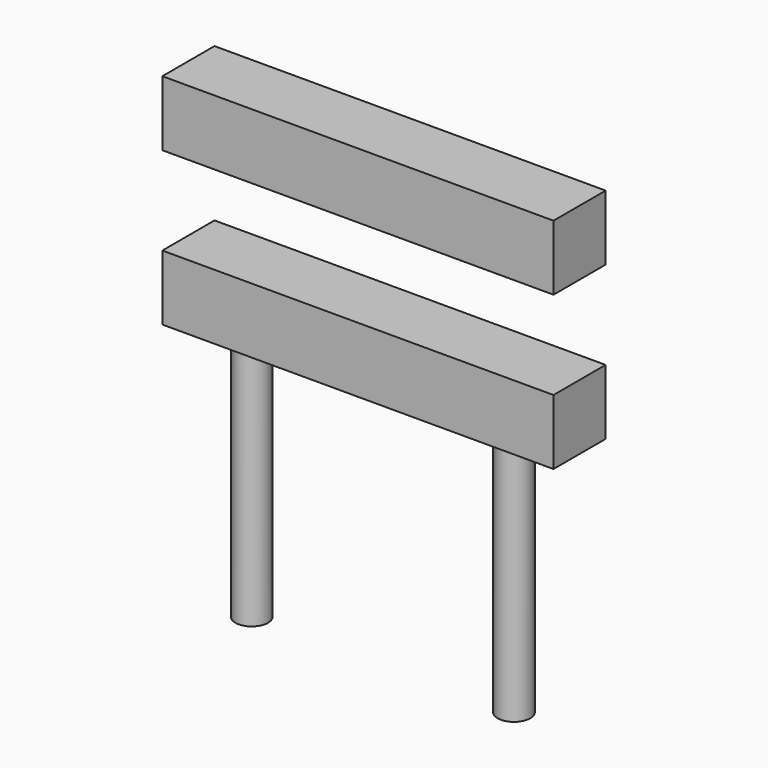
from build123d import *

# Parameters (mm, degrees)
F0_W     = 60
F0_H     = 10
F0_W_2   = 59.9948
F1_DEPTH = 10
F2_R     = 2.5
F3_DEPTH = 38.1


with BuildPart() as f1:
    # F0 (on Front) → F1 (new body)
    with BuildSketch(Plane.XZ):
        with Locations((30, 5)):
            Rectangle(F0_W, F0_H)
        with Locations((29.9974, -18.541117)):
            Rectangle(F0_W_2, F0_H)
    extrude(amount=F1_DEPTH)

    # F2 (on face) → F3 (join)
    with BuildSketch(Plane(origin=(0, 0, -23.541117), x_dir=(1, 0, 0), z_dir=(0, 0, -1))):
        with Locations((10, 5.363799)):
            Circle(F2_R)
        with Locations((49.995074, 5.074028)):
            Circle(F2_R)
    extrude(amount=F3_DEPTH)


solid = f1.part
